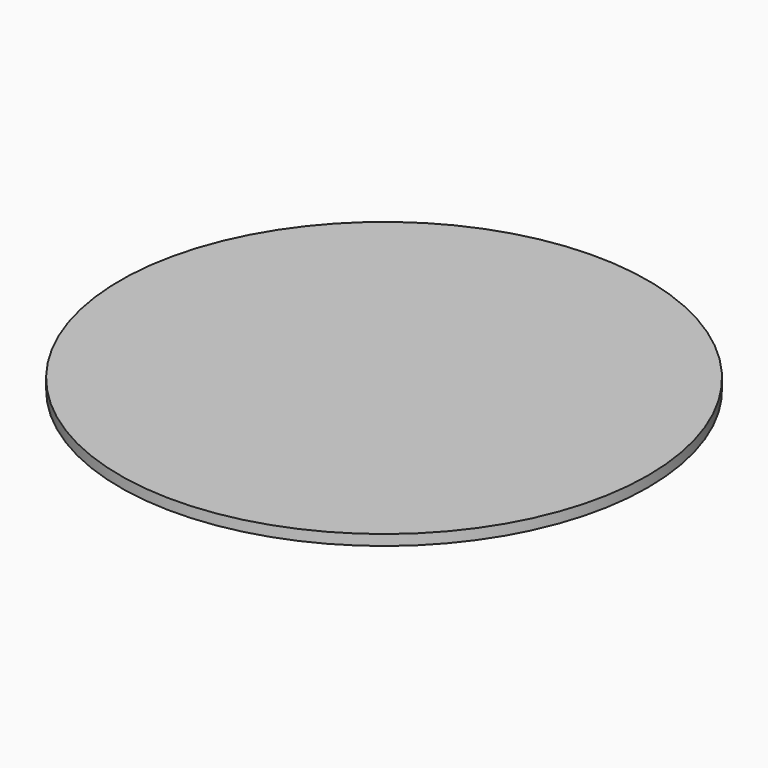
from build123d import *

# Parameters (mm, degrees)
CYLINDER_R     = 0.75
CYLINDER_DEPTH = 0.03


with BuildPart() as part:
    # Cylinder → Cylinder (new body)
    with BuildSketch(Plane.XY):
        Circle(CYLINDER_R)
    extrude(amount=CYLINDER_DEPTH)


solid = part.part
